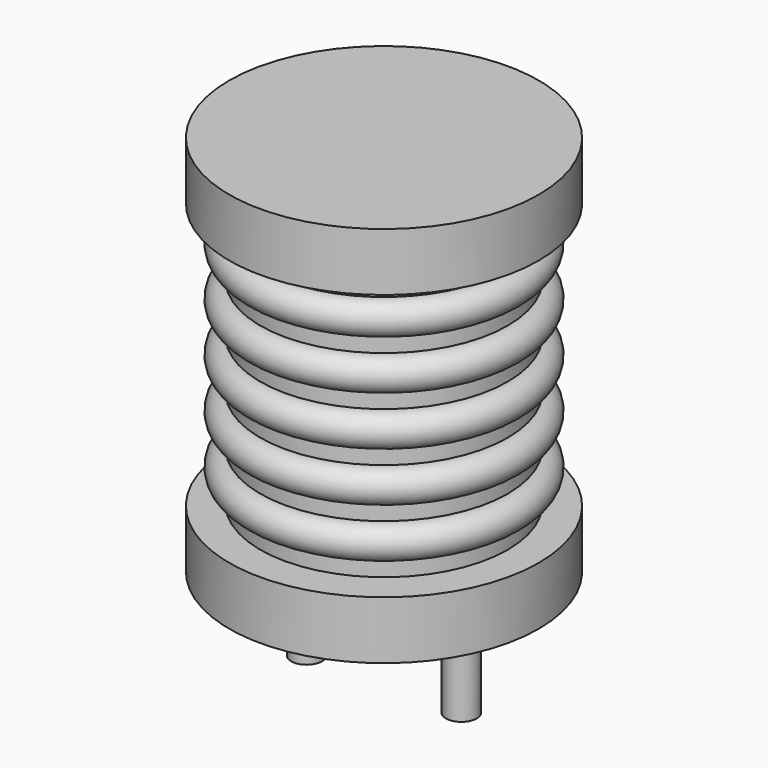
from build123d import *

# Parameters (mm, degrees)
SKETCH001_R  = 0.5
PAD001_DEPTH = 3.5


with BuildPart() as revolution:
    # Sketch → Revolution (revolve)
    with BuildSketch(Plane(origin=(2.5, 0, 0), x_dir=(1, 0, 0), z_dir=(0, -1, 0))):
        Polygon((0, 0.05), (1.5, 0.05), (1.5, 0.2), (5, 0.2), (5, 2.075), (1, 2.075), (1, 10.675), (5, 10.675), (5, 12.55), (0, 12.55), align=None)
    revolve(axis=Axis((2.5, 0, 0), (0, 0, 1)))


with BuildPart() as pad001:
    # Sketch001 → Pad001 (new body)
    with BuildSketch(Plane.XY.offset(0.5)):
        Circle(SKETCH001_R)
        with Locations((5, 0)):
            Circle(SKETCH001_R)
    extrude(amount=-PAD001_DEPTH)


with BuildPart() as obj1:
    # Sketch002 → Revolution001 (revolve)
    with BuildSketch(Plane(origin=(2.5, 0, 0), x_dir=(1, 0, 0), z_dir=(0, -1, 0))):
        with BuildLine():
            Line((4, 2.125), (1, 2.125))
            Line((1, 2.125), (1, 10.625))
            Line((1, 10.625), (4, 10.625))
            Line((4, 10.625), (4, 10.09375))
            ThreePointArc((4, 9.03125), (4.53125, 9.5625), (4, 10.09375))
            Line((4, 9.03125), (4, 8.5))
            ThreePointArc((4, 7.4375), (4.53125, 7.96875), (4, 8.5))
            Line((4, 7.4375), (4, 6.90625))
            ThreePointArc((4, 5.84375), (4.53125, 6.375), (4, 6.90625))
            Line((4, 5.84375), (4, 5.3125))
            ThreePointArc((4, 4.25), (4.53125, 4.78125), (4, 5.3125))
            Line((4, 4.25), (4, 3.71875))
            ThreePointArc((4, 2.65625), (4.53125, 3.1875), (4, 3.71875))
            Line((4, 2.125), (4, 2.65625))
        make_face()
    revolve(axis=Axis((2.5, 0, 0), (0, 0, 1)))

    add(revolution.part)
    add(pad001.part)


solid = obj1.part
